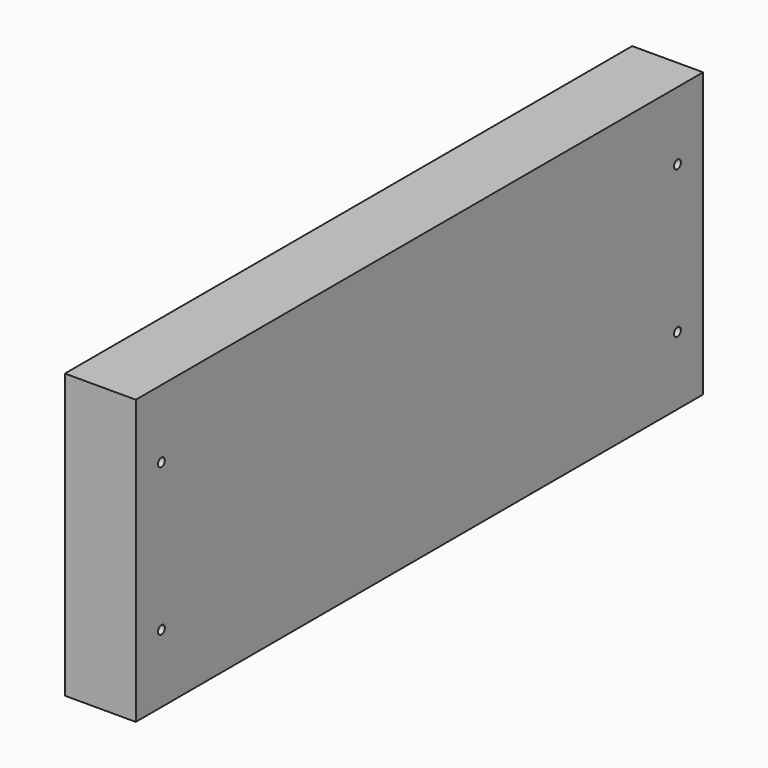
from build123d import *

# Parameters (mm, degrees)
F0_W     = 250
F0_H     = 100
F1_DEPTH = 25
F3_D     = 3


with BuildPart() as f1:
    # F0 (on Right) → F1 (new body)
    with BuildSketch(Plane.YZ):
        with Locations((-16.665041, 50)):
            Rectangle(F0_W, F0_H)
    extrude(amount=F1_DEPTH)

    # F3 (through all)
    with Locations(Plane.YZ.offset(25)):
        with Locations((-130.37695, 76), (-130.37695, 24), (97.046869, 76), (97.046869, 24)):
            Hole(F3_D / 2)


solid = f1.part
